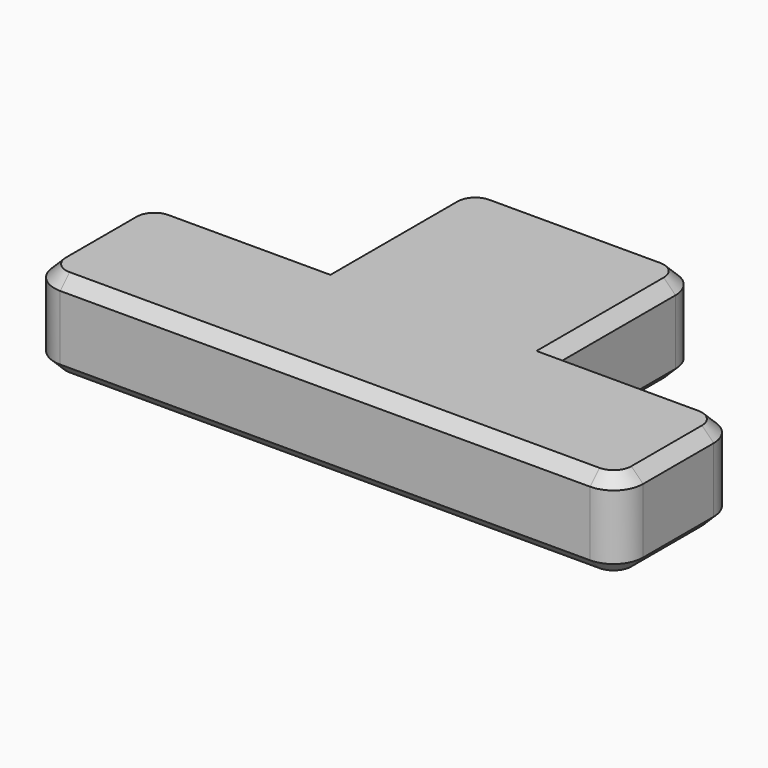
from build123d import *

# Parameters (mm, degrees)
PAD_DEPTH    = 3
FILLET_R     = 1
CHAMFER_SIZE = 0.4


with BuildPart() as part:
    # Sketch → Pad (new body)
    with BuildSketch(Plane.XY):
        Polygon((4.324051, 21.515991), (4.324051, 27.515991), (12.124051, 27.515991), (12.124051, 21.515991), (18.224051, 21.515991), (18.224051, 16.515991), (-1.775949, 16.515991), (-1.775949, 21.515991), align=None)
    extrude(amount=PAD_DEPTH)

    # Fillet
    fillet_edges = [part.edges().sort_by_distance(p)[0] for p in [
        (18.224051, 21.515991, 1.5),
        (12.124051, 27.515991, 1.5),
        (4.324051, 27.515991, 1.5),
        (18.224051, 16.515991, 1.5),
        (-1.775949, 21.515991, 1.5),
        (-1.775949, 16.515991, 1.5),
    ]]
    fillet(fillet_edges, radius=FILLET_R)

    # Chamfer
    chamfer_edges = [part.edges().sort_by_distance(p)[0] for p in [
        (4.324051, 24.015991, 3),
        (4.616944, 27.223098, 3),
        (1.774051, 21.515991, 3),
        (8.224051, 27.515991, 3),
        (-1.483056, 21.223098, 3),
        (11.831158, 27.223098, 3),
        (-1.775949, 19.015991, 3),
        (12.124051, 24.015991, 3),
        (-1.483056, 16.808884, 3),
        (14.674051, 21.515991, 3),
        (8.224051, 16.515991, 3),
        (17.931158, 21.223098, 3),
        (17.931158, 16.808884, 3),
        (18.224051, 19.015991, 3),
        (4.324051, 24.015991, 0),
        (4.616944, 27.223098, 0),
        (1.774051, 21.515991, 0),
        (8.224051, 27.515991, 0),
        (-1.483056, 21.223098, 0),
        (11.831158, 27.223098, 0),
        (-1.775949, 19.015991, 0),
        (12.124051, 24.015991, 0),
        (-1.483056, 16.808884, 0),
        (14.674051, 21.515991, 0),
        (8.224051, 16.515991, 0),
        (17.931158, 21.223098, 0),
        (17.931158, 16.808884, 0),
        (18.224051, 19.015991, 0),
    ]]
    chamfer(chamfer_edges, length=CHAMFER_SIZE)


solid = part.part
